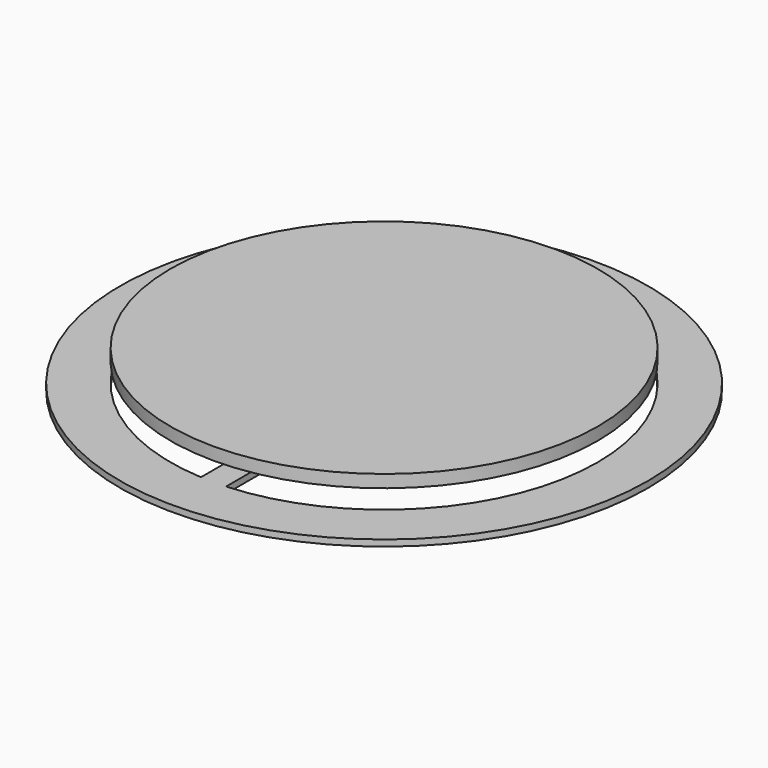
from build123d import *

# Parameters (mm, degrees)
F0_R     = 107.7630734498
F0_R_2   = 12.7
F1_DEPTH = 6.35
F2_DEPTH = 12.7
F3_R     = 133.1630796194
F4_DEPTH = 3.175


with BuildPart() as f1:
    # F0 (on Top) → F1 (new body)
    with BuildSketch(Plane.XY):
        Circle(F0_R)
        Circle(F0_R_2, mode=Mode.SUBTRACT)
        Circle(F0_R_2)
    extrude(amount=F1_DEPTH)

    # F0 (on Top) → F2 (join)
    with BuildSketch(Plane.XY):
        Circle(F0_R_2)
    extrude(amount=-F2_DEPTH)

    # F3 (on face) → F4 (join)
    with BuildSketch(Plane(origin=(0, 0, -12.7), x_dir=(1, 0, 0), z_dir=(0, 0, -1))):
        Circle(F3_R)
        with BuildLine():
            ThreePointArc((6.35, 107.5758220947), (78.4129310629, 73.9208511955), (107.7630734498, 0))
            ThreePointArc((107.7630734498, 0), (78.4129310629, -73.9208511955), (6.35, -107.5758220947))
            Line((6.35, -107.5758220947), (6.35, -123.9275708795))
            Line((6.35, -123.9275708795), (-6.35, -123.9275708795))
            Line((-6.35, -123.9275708795), (-6.35, -107.5758220947))
            ThreePointArc((-6.35, -107.5758220947), (-107.7630734498, 0), (-6.35, 107.5758220947))
            Line((-6.35, 107.5758220947), (-6.35, 123.9275708795))
            Line((-6.35, 123.9275708795), (6.35, 123.9275708795))
            Line((6.35, 123.9275708795), (6.35, 107.5758220947))
        make_face(mode=Mode.SUBTRACT)
        with BuildLine():
            ThreePointArc((-6.35, -107.5758220947), (0, -107.7630734498), (6.35, -107.5758220947))
            Line((6.35, -107.5758220947), (6.35, -10.9985226281))
            ThreePointArc((6.35, -10.9985226281), (0, -12.7), (-6.35, -10.9985226281))
            Line((-6.35, -10.9985226281), (-6.35, -107.5758220947))
        make_face()
        with BuildLine():
            Line((6.35, 10.9985226281), (6.35, 107.5758220947))
            ThreePointArc((6.35, 107.5758220947), (0, 107.7630734498), (-6.35, 107.5758220947))
            Line((-6.35, 107.5758220947), (-6.35, 10.9985226281))
            ThreePointArc((-6.35, 10.9985226281), (0, 12.7), (6.35, 10.9985226281))
        make_face()
        with BuildLine():
            Line((6.35, -123.9275708795), (6.35, -107.5758220947))
            ThreePointArc((6.35, -107.5758220947), (0, -107.7630734498), (-6.35, -107.5758220947))
            Line((-6.35, -107.5758220947), (-6.35, -123.9275708795))
            Line((-6.35, -123.9275708795), (6.35, -123.9275708795))
        make_face()
        with BuildLine():
            ThreePointArc((-6.35, 107.5758220947), (0, 107.7630734498), (6.35, 107.5758220947))
            Line((6.35, 107.5758220947), (6.35, 123.9275708795))
            Line((6.35, 123.9275708795), (-6.35, 123.9275708795))
            Line((-6.35, 123.9275708795), (-6.35, 107.5758220947))
        make_face()
    extrude(amount=-F4_DEPTH)


solid = f1.part
